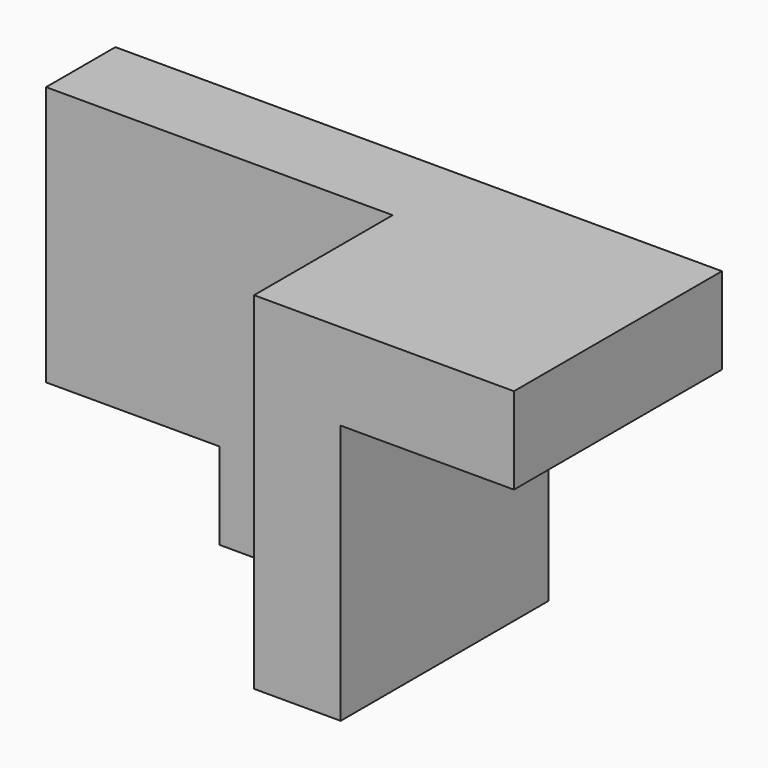
from build123d import *

# Parameters (mm, degrees)
F0_W     = 50.8
F0_H     = 76.2
F1_DEPTH = 25.4
F0_H_2   = 25.4
F2_DEPTH = 76.2


with BuildPart() as f1:
    # F0 (on Front) → F1 (new body)
    with BuildSketch(Plane.XZ):
        with Locations((-48.304801, 25.821041)):
            Rectangle(F0_W, F0_H)
        Polygon((27.895199, 63.921041), (-22.904801, 63.921041), (-22.904801, -12.278959), (-22.904801, -37.678959), (27.895199, -37.678959), align=None)
    extrude(amount=F1_DEPTH)

    # F0 (on Front) → F2 (join)
    with BuildSketch(Plane.XZ):
        Polygon((53.295199, 63.921041), (27.895199, 63.921041), (27.895199, -37.678959), (53.295199, -37.678959), (53.295199, 38.521041), align=None)
        with Locations((78.695199, 51.221041)):
            Rectangle(F0_W, F0_H_2)
    extrude(amount=F2_DEPTH)


solid = f1.part
